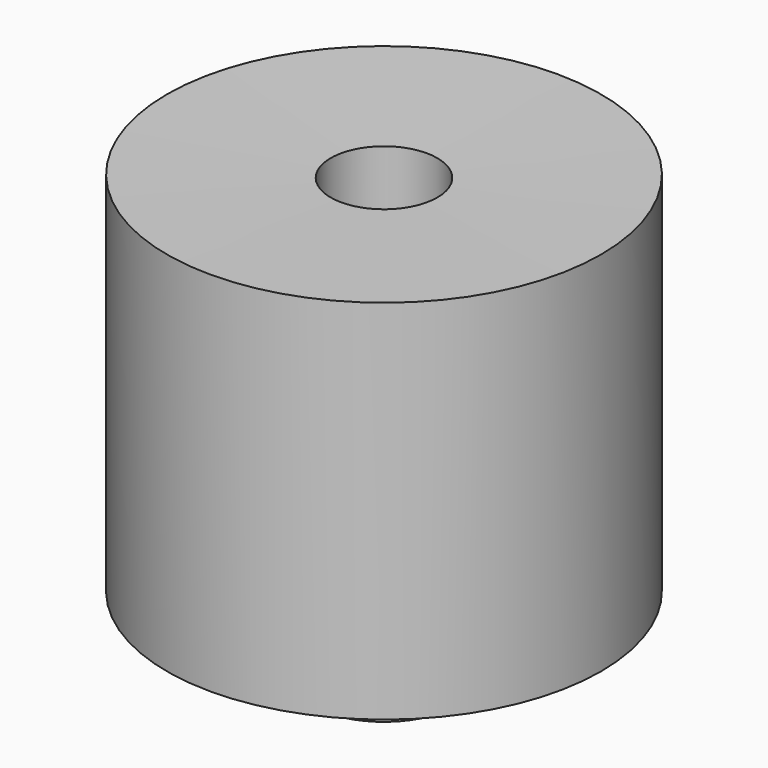
from build123d import *

# Parameters (mm, degrees)
F2_R     = 11.441982
F3_DEPTH = 11.844136
F4_R     = 8.253592
F5_DEPTH = 104.953468


with BuildPart() as f1:
    # F0 (on Front) → F1 (revolve)
    with BuildSketch(Plane.XZ):
        Polygon((33.57698, 56.775637), (0, 56.165144), (0, 0), (33.57698, 0), align=None)
    revolve(axis=Axis((0, 0, 28.082572), (0, 0, -1)))

    # F2 (on face) → F3 (join)
    with BuildSketch(Plane(origin=(0, 0, 0), x_dir=(1, 0, 0), z_dir=(0, 0, -1))):
        Circle(F2_R)
    extrude(amount=F3_DEPTH)

    # F4 (on face) → F5 (cut)
    with BuildSketch(Plane(origin=(0, 0, -11.844136), x_dir=(1, 0, 0), z_dir=(0, 0, -1))):
        Circle(F4_R)
    extrude(amount=-F5_DEPTH, mode=Mode.SUBTRACT)


solid = f1.part
